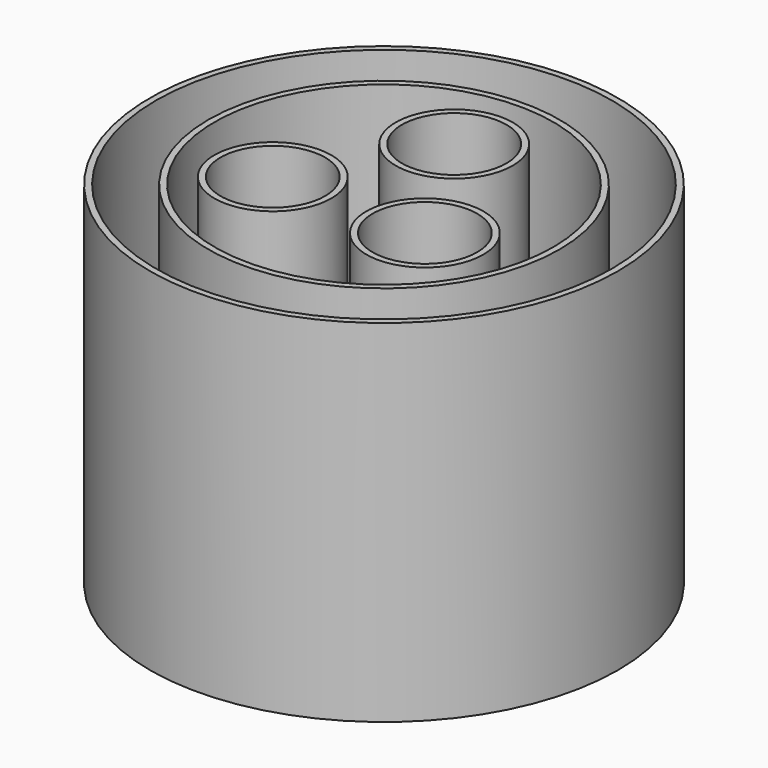
from build123d import *

# Parameters (mm, degrees)
F0_R     = 7.5
F1_DEPTH = 45
F0_R_2   = 22.5
F2_DEPTH = 45
F0_R_3   = 30
F3_DEPTH = 45
F4_T     = -0.8
F5_T     = -0.8
F6_T     = -0.8
F7_T     = -0.8
F8_T     = -0.8


with BuildPart() as f1:
    # F0 (on Top) → F1 (new body)
    with BuildSketch(Plane.XY):
        with Locations((0, 11.25)):
            Circle(F0_R)
    extrude(amount=F1_DEPTH)

    # F7
    f7_openings = [f1.faces().sort_by_distance(p)[0] for p in [
        (0, 11.25, 45),
    ]]
    offset(amount=F7_T, openings=f7_openings)


with BuildPart() as f1b:
    # F0 (on Top) → F1, piece 2 (new body)
    with BuildSketch(Plane.XY):
        with Locations((9.7427857926, -5.625)):
            Circle(F0_R)
    extrude(amount=F1_DEPTH)

    # F8
    f8_openings = [f1b.faces().sort_by_distance(p)[0] for p in [
        (9.742786, -5.625, 45),
    ]]
    offset(amount=F8_T, openings=f8_openings)


with BuildPart() as f1c:
    # F0 (on Top) → F1, piece 3 (new body)
    with BuildSketch(Plane.XY):
        with Locations((-9.7427857926, -5.625)):
            Circle(F0_R)
    extrude(amount=F1_DEPTH)

    # F6
    f6_openings = [f1c.faces().sort_by_distance(p)[0] for p in [
        (-9.742786, -5.625, 45),
    ]]
    offset(amount=F6_T, openings=f6_openings)


with BuildPart() as f2:
    # F0 (on Top) → F2 (new body)
    with BuildSketch(Plane.XY):
        Circle(F0_R_2)
        with Locations((-9.7427857926, -5.625)):
            Circle(F0_R, mode=Mode.SUBTRACT)
        with Locations((9.7427857926, -5.625)):
            Circle(F0_R, mode=Mode.SUBTRACT)
        with Locations((0, 11.25)):
            Circle(F0_R, mode=Mode.SUBTRACT)
        with Locations((-9.7427857926, -5.625)):
            Circle(F0_R)
        with Locations((0, 11.25)):
            Circle(F0_R)
        with Locations((9.7427857926, -5.625)):
            Circle(F0_R)
    extrude(amount=F2_DEPTH)

    # F5
    f5_openings = [f2.faces().sort_by_distance(p)[0] for p in [
        (0, 0, 45),
    ]]
    offset(amount=F5_T, openings=f5_openings)


with BuildPart() as f3:
    # F0 (on Top) → F3 (new body)
    with BuildSketch(Plane.XY):
        Circle(F0_R_3)
        Circle(F0_R_2, mode=Mode.SUBTRACT)
        Circle(F0_R_2)
        with Locations((-9.7427857926, -5.625)):
            Circle(F0_R, mode=Mode.SUBTRACT)
        with Locations((9.7427857926, -5.625)):
            Circle(F0_R, mode=Mode.SUBTRACT)
        with Locations((0, 11.25)):
            Circle(F0_R, mode=Mode.SUBTRACT)
        with Locations((-9.7427857926, -5.625)):
            Circle(F0_R)
        with Locations((0, 11.25)):
            Circle(F0_R)
        with Locations((9.7427857926, -5.625)):
            Circle(F0_R)
    extrude(amount=F3_DEPTH)

    # F4
    f4_openings = [f3.faces().sort_by_distance(p)[0] for p in [
        (0, 0, 45),
    ]]
    offset(amount=F4_T, openings=f4_openings)


solid = Compound([f1.part, f1b.part, f1c.part, f2.part, f3.part])
